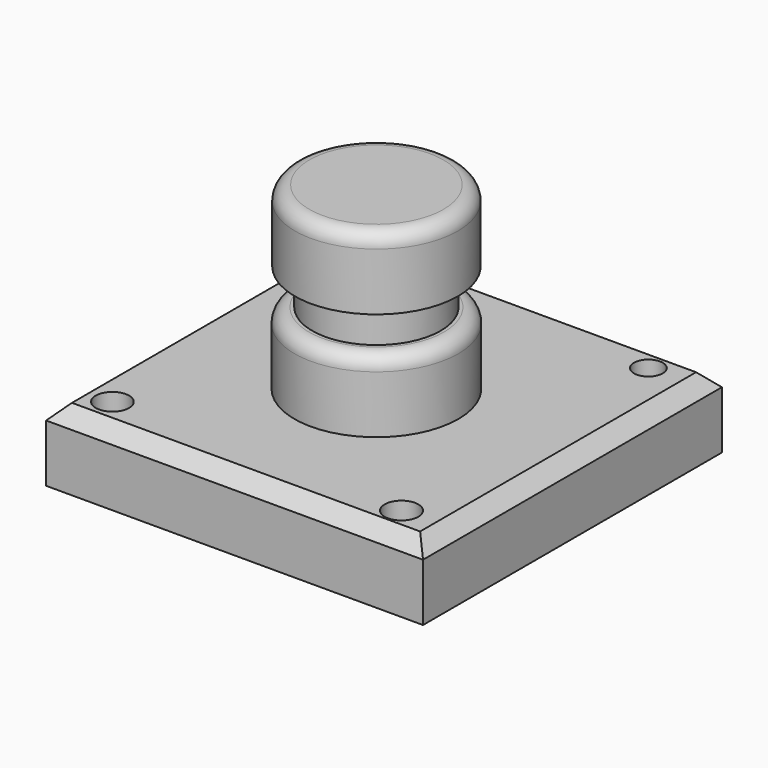
from build123d import *

# Parameters (mm, degrees)
F0_W      = 133.204266
F0_H      = 132.038363
F1_DEPTH  = 25.4
F2_R      = 5.014733
F2_R_2    = 5.090399
F2_R_3    = 5.903397
F2_R_4    = 5.940857
F4_DEPTH  = 25.4
F5_DEPTH  = 25.4
F3_R      = 28.959294
F6_DEPTH  = 25.4
F7_R      = 22.678724
F8_DEPTH  = 12.7
F9_R      = 28.767789
F10_DEPTH = 25.4
F11_R     = 5.08
F12_SIZE  = 5.08


with BuildPart() as f1:
    # F0 (on Top) → F1 (new body)
    with BuildSketch(Plane.XY):
        with Locations((1.165904, 1.89459)):
            Rectangle(F0_W, F0_H)
    extrude(amount=F1_DEPTH)

    # F2 (on face) → F4 (cut)
    with BuildSketch(Plane.XY.offset(25.4)):
        with Locations((-52.031644, 56.54623)):
            Circle(F2_R)
        with Locations((50.862458, 56.54623)):
            Circle(F2_R_2)
        with Locations((-52.031644, -51.589914)):
            Circle(F2_R_3)
        with Locations((50.862458, -52.49856)):
            Circle(F2_R_4)
    extrude(amount=-F4_DEPTH, mode=Mode.SUBTRACT)

    # F2 (on face) → F5 (cut)
    with BuildSketch(Plane.XY.offset(25.4)):
        with Locations((-52.031644, 56.54623)):
            Circle(F2_R)
        with Locations((50.862458, 56.54623)):
            Circle(F2_R_2)
        with Locations((-52.031644, -51.589914)):
            Circle(F2_R_3)
        with Locations((50.862458, -52.49856)):
            Circle(F2_R_4)
    extrude(amount=-F5_DEPTH, mode=Mode.SUBTRACT)

    # F3 (on face) → F6 (join)
    with BuildSketch(Plane.XY.offset(25.4)):
        Circle(F3_R)
    extrude(amount=F6_DEPTH)

    # F7 (on face) → F8 (join)
    with BuildSketch(Plane.XY.offset(50.8)):
        Circle(F7_R)
    extrude(amount=F8_DEPTH)

    # F9 (on face) → F10 (join)
    with BuildSketch(Plane.XY.offset(63.5)):
        Circle(F9_R)
    extrude(amount=F10_DEPTH)

    # F11
    f11_edges = [f1.edges().sort_by_distance(p)[0] for p in [
        (-28.959294, 0, 50.8),
        (-28.767789, 0, 88.9),
    ]]
    fillet(f11_edges, radius=F11_R)

    # F12
    f12_edges = [f1.edges().sort_by_distance(p)[0] for p in [
        (1.165904, -64.124592, 25.4),
        (-65.436229, 1.89459, 25.4),
        (1.165904, 67.913771, 25.4),
        (67.768037, 1.89459, 25.4),
    ]]
    chamfer(f12_edges, length=F12_SIZE)


solid = f1.part
